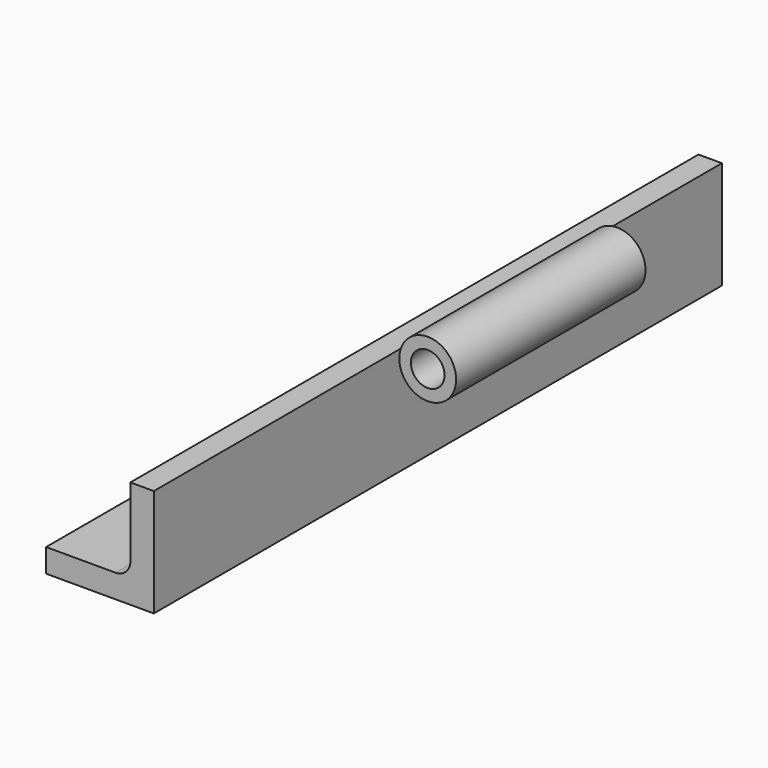
from build123d import *

# Parameters (mm, degrees)
F1_DEPTH = 152.4
F2_R     = 12.192923
F2_R_2   = 7.222574
F3_DEPTH = 50.8


with BuildPart() as f1:
    # F0 (on Front) → F1 (new body, symmetric)
    with BuildSketch(Plane.XZ):
        with BuildLine():
            Line((-16.416789, 10.066789), (-46.244312, 10.066789))
            Line((-46.244312, 10.066789), (-46.244312, 0))
            Line((-46.244312, 0), (-10.066789, 0))
            Line((-10.066789, 0), (0, 0))
            Line((0, 0), (0, 10.066789))
            Line((0, 10.066789), (0, 46.244312))
            Line((0, 46.244312), (-10.066789, 46.244312))
            Line((-10.066789, 46.244312), (-10.066789, 16.416789))
            ThreePointArc((-10.066789, 16.416789), (-11.926661, 11.926661), (-16.416789, 10.066789))
        make_face()
    extrude(amount=F1_DEPTH, both=True)


with BuildPart() as f3:
    # F2 (on Front) → F3 (new body, symmetric)
    with BuildSketch(Plane.XZ):
        with Locations((36.281679, 62.88594)):
            Circle(F2_R)
        with Locations((36.281679, 62.88594)):
            Circle(F2_R_2, mode=Mode.SUBTRACT)
    extrude(amount=F3_DEPTH, both=True)


solid = Compound([f1.part, f3.part])
